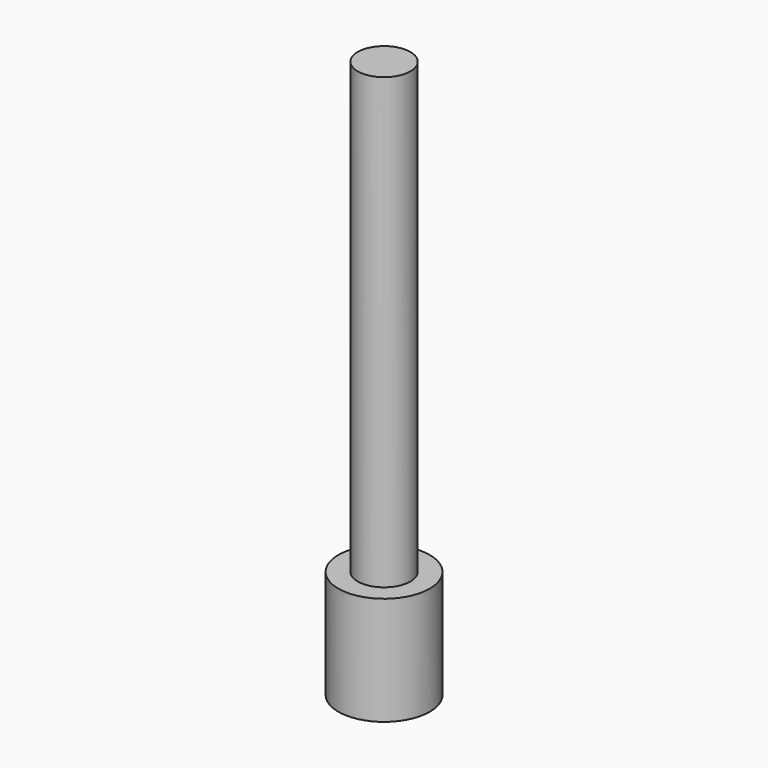
from build123d import *

# Parameters (mm, degrees)
CYLINDER_R        = 2.95
CYLINDER_DEPTH    = 7
CYLINDER001_R     = 1.7
CYLINDER001_DEPTH = 30


with BuildPart() as m3bolthead:
    # Cylinder → Cylinder (new body)
    with BuildSketch(Plane.XY):
        Circle(CYLINDER_R)
    extrude(amount=CYLINDER_DEPTH)


with BuildPart() as m3bolt:
    # Cylinder001 → Cylinder001 (new body)
    with BuildSketch(Plane.XY.offset(6)):
        Circle(CYLINDER001_R)
    extrude(amount=CYLINDER001_DEPTH)

    # Fusion: union M3BoltHead
    add(m3bolthead.part)


solid = m3bolt.part
